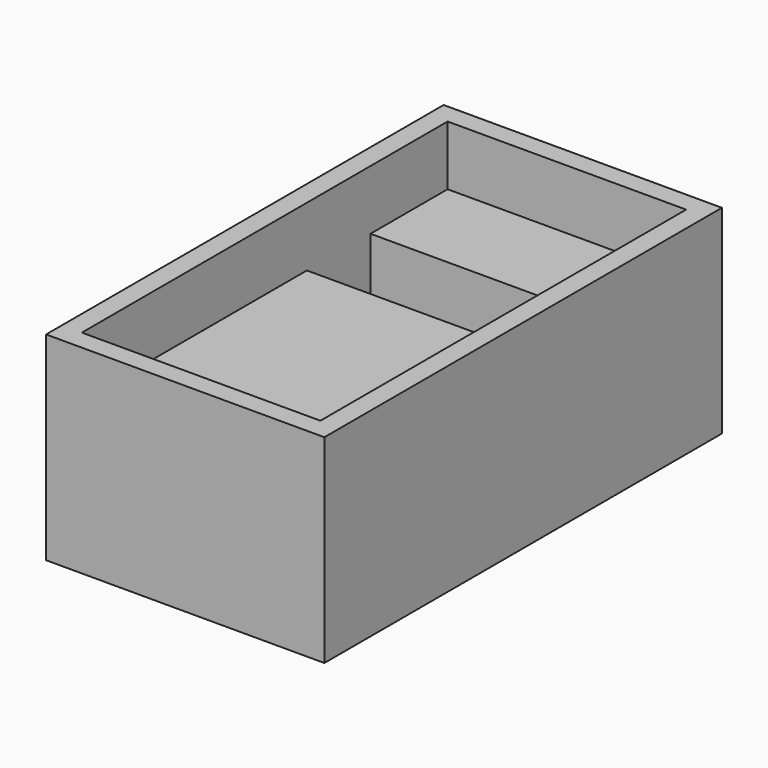
from build123d import *

# Parameters (mm, degrees)
SKETCH_W        = 14
SKETCH_H        = 25
PAD_DEPTH       = 10
SKETCH001_W     = 12
SKETCH001_H     = 23
POCKET_DEPTH    = 3
SKETCH002_W     = 12
SKETCH002_H     = 4
POCKET001_DEPTH = 5


with BuildPart() as part:
    # Sketch → Pad (new body)
    with BuildSketch(Plane.XY):
        with Locations((7, 12.5)):
            Rectangle(SKETCH_W, SKETCH_H)
    extrude(amount=PAD_DEPTH)

    # Sketch001 (on Face6 of Pad) → Pocket (cut)
    with BuildSketch(Plane.XY.offset(10)):
        with Locations((7, 12.5)):
            Rectangle(SKETCH001_W, SKETCH001_H)
    extrude(amount=-POCKET_DEPTH, mode=Mode.SUBTRACT)

    # Sketch002 (on Face11 of Pocket) → Pocket001 (cut)
    with BuildSketch(Plane.XY.offset(7)):
        with Locations((7, 17.15)):
            Rectangle(SKETCH002_W, SKETCH002_H)
    extrude(amount=-POCKET001_DEPTH, mode=Mode.SUBTRACT)


solid = part.part
